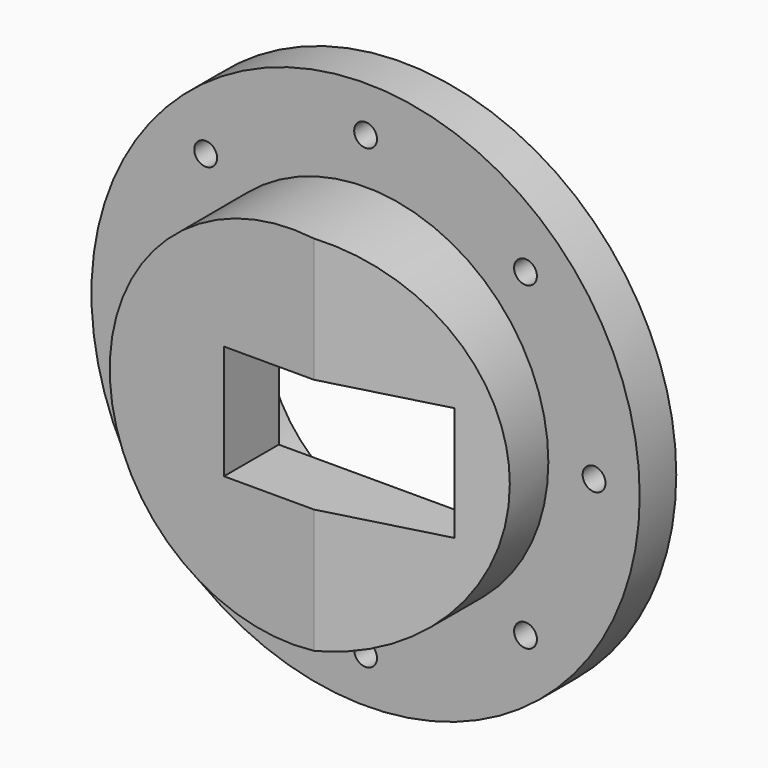
from build123d import *

# Parameters (mm, degrees)
BOX014_W               = 16
BOX014_H               = 4
BOX014_DEPTH           = 16
BOX014_PLACEMENT_ANGLE = 15
CYLINDER039_R          = 0.5
CYLINDER039_DEPTH      = 20
CYLINDER038_R          = 0.5
CYLINDER038_DEPTH      = 20
CYLINDER034_R          = 0.5
CYLINDER034_DEPTH      = 20
CYLINDER035_R          = 0.5
CYLINDER035_DEPTH      = 20
CYLINDER040_R          = 0.5
CYLINDER040_DEPTH      = 20
CYLINDER036_R          = 0.5
CYLINDER036_DEPTH      = 20
CYLINDER037_R          = 0.5
CYLINDER037_DEPTH      = 20
CYLINDER033_R          = 0.5
CYLINDER033_DEPTH      = 20
CYLINDER030_R          = 6
CYLINDER030_DEPTH      = 14
BOX013_W               = 9
BOX013_H               = 10
BOX013_DEPTH           = 5
CYLINDER031_R          = 8
CYLINDER031_DEPTH      = 6
CYLINDER032_R          = 12
CYLINDER032_DEPTH      = 2


with BuildPart() as cube014:
    # Box014 → Box014 (new body)
    with BuildSketch(Plane.XY):
        with Locations((8, 2)):
            Rectangle(BOX014_W, BOX014_H)
    extrude(amount=BOX014_DEPTH)


with BuildPart() as cube014_1:
    # Box014 placement: moved
    add(cube014.part.moved(Location((19, -17, 13))).rotate(Axis((19, -17, 13), (0, 0, 1)), BOX014_PLACEMENT_ANGLE))


with BuildPart() as cylinder039:
    # Cylinder039 → Cylinder039 (new body)
    with BuildSketch(Plane(origin=(32, 7, 14), x_dir=(1, 0, 0), z_dir=(0, -1, 0))):
        Circle(CYLINDER039_R)
    extrude(amount=CYLINDER039_DEPTH)


with BuildPart() as cylinder038:
    # Cylinder038 → Cylinder038 (new body)
    with BuildSketch(Plane(origin=(18, 7, 14), x_dir=(1, 0, 0), z_dir=(0, -1, 0))):
        Circle(CYLINDER038_R)
    extrude(amount=CYLINDER038_DEPTH)


with BuildPart() as cylinder034:
    # Cylinder034 → Cylinder034 (new body)
    with BuildSketch(Plane(origin=(35, 7, 21), x_dir=(1, 0, 0), z_dir=(0, -1, 0))):
        Circle(CYLINDER034_R)
    extrude(amount=CYLINDER034_DEPTH)


with BuildPart() as cylinder035:
    # Cylinder035 → Cylinder035 (new body)
    with BuildSketch(Plane(origin=(25, 7, 11), x_dir=(1, 0, 0), z_dir=(0, -1, 0))):
        Circle(CYLINDER035_R)
    extrude(amount=CYLINDER035_DEPTH)


with BuildPart() as cylinder040:
    # Cylinder040 → Cylinder040 (new body)
    with BuildSketch(Plane(origin=(18, 7, 28), x_dir=(1, 0, 0), z_dir=(0, -1, 0))):
        Circle(CYLINDER040_R)
    extrude(amount=CYLINDER040_DEPTH)


with BuildPart() as cylinder036:
    # Cylinder036 → Cylinder036 (new body)
    with BuildSketch(Plane(origin=(25, 7, 31), x_dir=(1, 0, 0), z_dir=(0, -1, 0))):
        Circle(CYLINDER036_R)
    extrude(amount=CYLINDER036_DEPTH)


with BuildPart() as cylinder037:
    # Cylinder037 → Cylinder037 (new body)
    with BuildSketch(Plane(origin=(32, 7, 28), x_dir=(1, 0, 0), z_dir=(0, -1, 0))):
        Circle(CYLINDER037_R)
    extrude(amount=CYLINDER037_DEPTH)


with BuildPart() as fusion033:
    # Cylinder033 → Cylinder033 (new body)
    with BuildSketch(Plane(origin=(15, 7, 21), x_dir=(1, 0, 0), z_dir=(0, -1, 0))):
        Circle(CYLINDER033_R)
    extrude(amount=CYLINDER033_DEPTH)

    # Fusion033: union Cylinder039, Cylinder038, Cylinder034, Cylinder035, Cylinder040, Cylinder036, Cylinder037
    add(cylinder039.part)
    add(cylinder038.part)
    add(cylinder034.part)
    add(cylinder035.part)
    add(cylinder040.part)
    add(cylinder036.part)
    add(cylinder037.part)


with BuildPart() as cylinder030:
    # Cylinder030 → Cylinder030 (new body)
    with BuildSketch(Plane(origin=(25, -8, 21), x_dir=(1, 0, 0), z_dir=(0, 1, 0))):
        Circle(CYLINDER030_R)
    extrude(amount=CYLINDER030_DEPTH)


with BuildPart() as fusion032:
    # Box013 → Box013 (new body)
    with BuildSketch(Plane(origin=(22, -13, 18.5), x_dir=(1, 0, 0), z_dir=(0, 0, 1))):
        with Locations((4.5, 5)):
            Rectangle(BOX013_W, BOX013_H)
    extrude(amount=BOX013_DEPTH)

    # Fusion032: union Cylinder030
    add(cylinder030.part)


with BuildPart() as cylinder031:
    # Cylinder031 → Cylinder031 (new body)
    with BuildSketch(Plane(origin=(25, -11, 21), x_dir=(1, 0, 0), z_dir=(0, 1, 0))):
        Circle(CYLINDER031_R)
    extrude(amount=CYLINDER031_DEPTH)


with BuildPart() as springflange001:
    # Cylinder032 → Cylinder032 (new body)
    with BuildSketch(Plane(origin=(25, -7, 21), x_dir=(1, 0, 0), z_dir=(0, 1, 0))):
        Circle(CYLINDER032_R)
    extrude(amount=CYLINDER032_DEPTH)

    # Fusion034: union Cylinder031
    add(cylinder031.part)

    # Cut022: cut Fusion032
    add(fusion032.part, mode=Mode.SUBTRACT)

    # Cut023: cut Fusion033
    add(fusion033.part, mode=Mode.SUBTRACT)

    # Cut030: cut Cube014
    add(cube014_1.part, mode=Mode.SUBTRACT)


solid = springflange001.part
